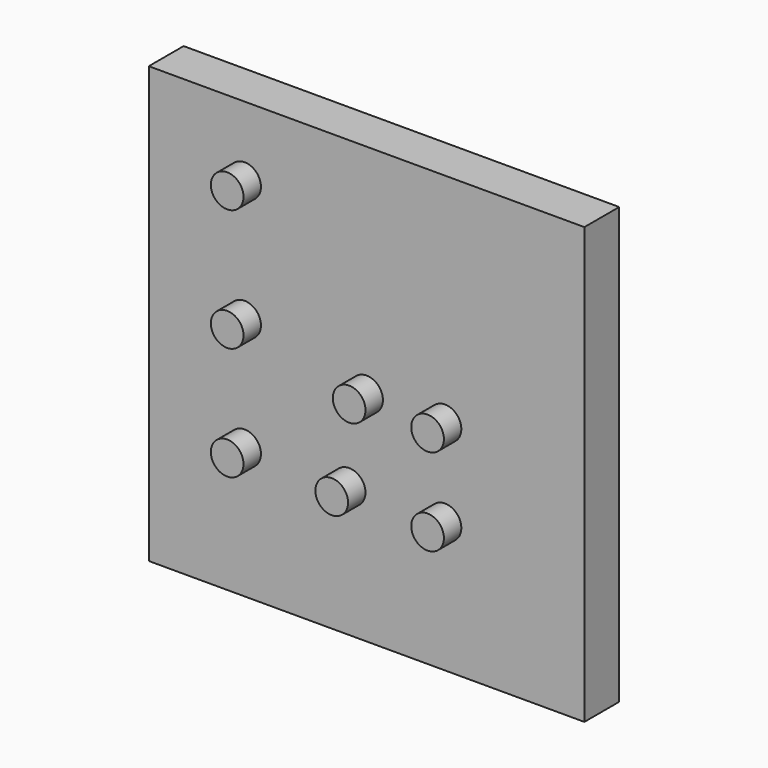
from build123d import *

# Parameters (mm, degrees)
F0_W      = 100
F0_H      = 100
F1_DEPTH  = 10
F2_R      = 3.75
F3_DEPTH  = 5
F4_R      = 3.75
F5_DEPTH  = 5
F7_R      = 3.75
F8_DEPTH  = 5
F9_R      = 3.75
F10_DEPTH = 5
F11_R     = 3.75
F12_DEPTH = 5
F13_R     = 3.75
F14_DEPTH = 5
F6_R      = 3.75
F15_DEPTH = 5


with BuildPart() as f1:
    # F0 (on Front) → F1 (new body)
    with BuildSketch(Plane.XZ):
        Rectangle(F0_W, F0_H)
    extrude(amount=F1_DEPTH)

    # F2 (on face) → F3 (join)
    with BuildSketch(Plane.XZ.offset(10)):
        Circle(F2_R)
    extrude(amount=F3_DEPTH)

    # F4 (on face) → F5 (join)
    with BuildSketch(Plane.XZ.offset(10)):
        with Locations((18, 0)):
            Circle(F4_R)
    extrude(amount=F5_DEPTH)

    # F7 (on face) → F8 (join)
    with BuildSketch(Plane.XZ.offset(10)):
        with Locations((-4, -20)):
            Circle(F7_R)
    extrude(amount=F8_DEPTH)

    # F9 (on face) → F10 (join)
    with BuildSketch(Plane.XZ.offset(10)):
        with Locations((-28, -20)):
            Circle(F9_R)
    extrude(amount=F10_DEPTH)

    # F11 (on face) → F12 (join)
    with BuildSketch(Plane.XZ.offset(10)):
        with Locations((-28, 6)):
            Circle(F11_R)
    extrude(amount=F12_DEPTH)

    # F13 (on face) → F14 (join)
    with BuildSketch(Plane.XZ.offset(10)):
        with Locations((-28, 34)):
            Circle(F13_R)
    extrude(amount=F14_DEPTH)

    # F6 (on face) → F15 (join)
    with BuildSketch(Plane.XZ.offset(10)):
        with Locations((18, -20)):
            Circle(F6_R)
    extrude(amount=F15_DEPTH)


solid = f1.part
